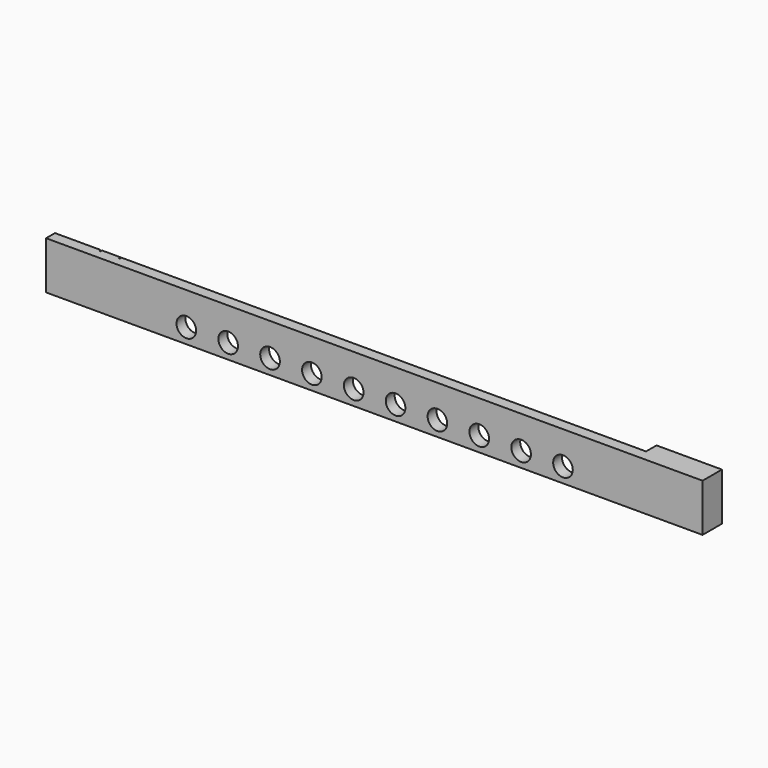
from build123d import *

# Parameters (mm, degrees)
F0_W      = 100.4
F0_H      = 7.3
F1_DEPTH  = 1.7
F2_R      = 1.5
F3_DEPTH  = 1.701
F4_W      = 10
F4_H      = 7.3
F5_DEPTH  = 2
F7_W      = 0.2
F7_H      = 7.3
F8_DEPTH  = 0.3
F9_W      = 0.2
F9_H      = 7.3
F10_DEPTH = 0.3


with BuildPart() as f1:
    # F0 (on Front) → F1 (new body)
    with BuildSketch(Plane.XZ):
        Rectangle(F0_W, F0_H)
    extrude(amount=F1_DEPTH)

    # F2 (on face) → F3 (cut, through all)
    with BuildSketch(Plane.XZ.offset(1.7)):
        with Locations((-28.75, -1.35)):
            Circle(F2_R)
        with Locations((-22.35, -1.35)):
            Circle(F2_R)
        with Locations((-15.95, -1.35)):
            Circle(F2_R)
        with Locations((-9.55, -1.35)):
            Circle(F2_R)
        with Locations((-3.15, -1.35)):
            Circle(F2_R)
        with Locations((3.25, -1.35)):
            Circle(F2_R)
        with Locations((9.65, -1.35)):
            Circle(F2_R)
        with Locations((16.05, -1.35)):
            Circle(F2_R)
        with Locations((22.45, -1.35)):
            Circle(F2_R)
        with Locations((28.85, -1.35)):
            Circle(F2_R)
    extrude(amount=-F3_DEPTH, mode=Mode.SUBTRACT)

    # F4 (on face) → F5 (join)
    with BuildSketch(Plane(origin=(0, 0, 0), x_dir=(-1, 0, 0), z_dir=(0, 1, 0))):
        with Locations((-45.2, 0)):
            Rectangle(F4_W, F4_H)
    extrude(amount=F5_DEPTH)

    # F7 (on face) → F8 (cut)
    with BuildSketch(Plane(origin=(0, 0, 0), x_dir=(-1, 0, 0), z_dir=(0, 1, 0))):
        with Locations((40.1, 0)):
            Rectangle(F7_W, F7_H)
    extrude(amount=-F8_DEPTH, mode=Mode.SUBTRACT)

    # F9 (on face) → F10 (cut)
    with BuildSketch(Plane(origin=(0, 0, 0), x_dir=(-1, 0, 0), z_dir=(0, 1, 0))):
        with Locations((43.1, 0)):
            Rectangle(F9_W, F9_H)
    extrude(amount=-F10_DEPTH, mode=Mode.SUBTRACT)


solid = f1.part
